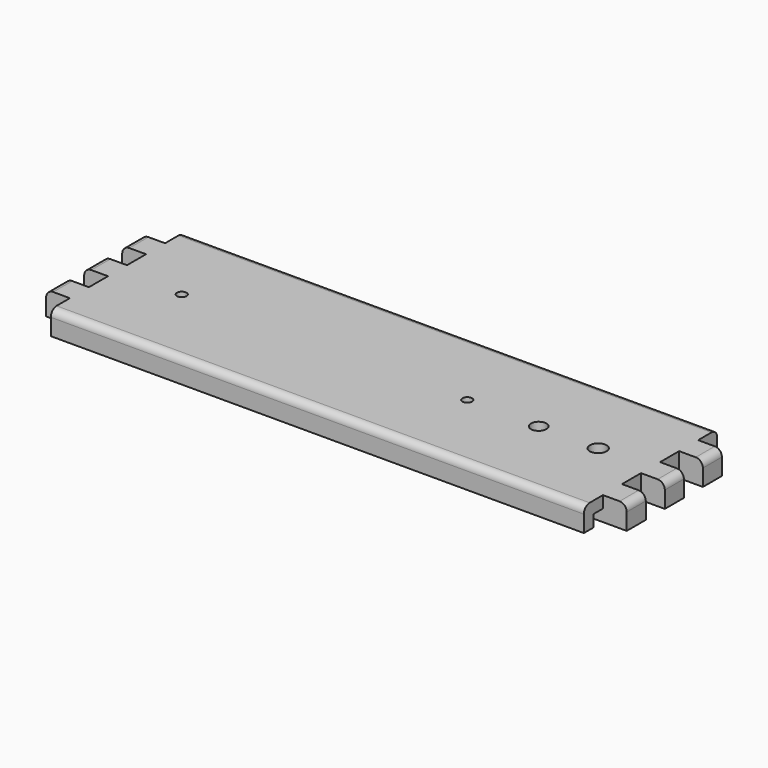
from build123d import *

# Parameters (mm, degrees)
SKETCH_W        = 244
SKETCH_H        = 70
PAD_DEPTH       = 10
FILLET_R        = 3
FILLET001_R     = 3
FILLET002_R     = 3
FILLET003_R     = 3
POCKET_DEPTH    = 5
SKETCH002_W     = 10
SKETCH002_H     = 10
POCKET001_DEPTH = 10.001
SKETCH003_R     = 3.5
SKETCH003_R_2   = 3.25
SKETCH003_R_3   = 2
POCKET002_DEPTH = 10.001
SKETCH004_W     = 45
SKETCH004_H     = 12
POCKET003_DEPTH = 5
FILLET004_R     = 2
FILLET005_R     = 2
FILLET006_R     = 2
FILLET007_R     = 2


with BuildPart() as part:
    # Sketch → Pad (new body)
    with BuildSketch(Plane.XY):
        Rectangle(SKETCH_W, SKETCH_H)
    extrude(amount=PAD_DEPTH)

    # Fillet
    fillet_edges = [part.edges().sort_by_distance(p)[0] for p in [
        (0, -35, 10),
    ]]
    fillet(fillet_edges, radius=FILLET_R)

    # Fillet001
    fillet001_edges = [part.edges().sort_by_distance(p)[0] for p in [
        (-122, 1.5, 10),
    ]]
    fillet(fillet001_edges, radius=FILLET001_R)

    # Fillet002
    fillet002_edges = [part.edges().sort_by_distance(p)[0] for p in [
        (1.5, 35, 10),
    ]]
    fillet(fillet002_edges, radius=FILLET002_R)

    # Fillet003
    fillet003_edges = [part.edges().sort_by_distance(p)[0] for p in [
        (122, 0, 10),
    ]]
    fillet(fillet003_edges, radius=FILLET003_R)

    # Sketch001 (on Face2 of Fillet003) → Pocket (cut)
    with BuildSketch(Plane(origin=(0, 0, 0), x_dir=(1, 0, 0), z_dir=(0, 0, -1))):
        with BuildLine():
            ThreePointArc((-117, 30), (-119.5, 27.5), (-117, 25))
            Line((-117, 25), (117, 25))
            ThreePointArc((117, 25), (119.5, 27.5), (117, 30))
            Line((-117, 30), (117, 30))
        make_face()
        with BuildLine():
            ThreePointArc((-117, -25), (-119.5, -27.5), (-117, -30))
            Line((-117, -30), (117, -30))
            ThreePointArc((117, -30), (119.5, -27.5), (117, -25))
            Line((-117, -25), (117, -25))
        make_face()
    extrude(amount=-POCKET_DEPTH, mode=Mode.SUBTRACT)

    # Sketch002 (on Face2 of Pocket) → Pocket001 (cut, through all)
    with BuildSketch(Plane(origin=(0, 0, 0), x_dir=(1, 0, 0), z_dir=(0, 0, -1))):
        with Locations((-117, 10)):
            Rectangle(SKETCH002_W, SKETCH002_H)
        with Locations((-117, 30)):
            Rectangle(SKETCH002_W, SKETCH002_H)
        with Locations((-117, -10)):
            Rectangle(SKETCH002_W, SKETCH002_H)
        with Locations((117, 10)):
            Rectangle(SKETCH002_W, SKETCH002_H)
        with Locations((117, 30)):
            Rectangle(SKETCH002_W, SKETCH002_H)
        with Locations((117, -10)):
            Rectangle(SKETCH002_W, SKETCH002_H)
        with Locations((-117, -30)):
            Rectangle(SKETCH002_W, SKETCH002_H)
        with Locations((117, -30)):
            Rectangle(SKETCH002_W, SKETCH002_H)
    extrude(amount=-POCKET001_DEPTH, mode=Mode.SUBTRACT)

    # Sketch003 (on Face2 of Pocket001) → Pocket002 (cut, through all)
    with BuildSketch(Plane(origin=(0, 0, 0), x_dir=(1, 0, 0), z_dir=(0, 0, -1))):
        with Locations((90, 0)):
            Circle(SKETCH003_R)
        with Locations((65, 0)):
            Circle(SKETCH003_R_2)
        with Locations((-85, 0)):
            Circle(SKETCH003_R_3)
        with Locations((35, 0)):
            Circle(SKETCH003_R_3)
    extrude(amount=-POCKET002_DEPTH, mode=Mode.SUBTRACT)

    # Sketch004 (on Face2 of Pocket002) → Pocket003 (cut)
    with BuildSketch(Plane(origin=(0, 0, 0), x_dir=(1, 0, 0), z_dir=(0, 0, -1))):
        with Locations((77.5, 0)):
            Rectangle(SKETCH004_W, SKETCH004_H)
    extrude(amount=-POCKET003_DEPTH, mode=Mode.SUBTRACT)

    # Fillet004
    fillet004_edges = [part.edges().sort_by_distance(p)[0] for p in [
        (100, 6, 2.5),
    ]]
    fillet(fillet004_edges, radius=FILLET004_R)

    # Fillet005
    fillet005_edges = [part.edges().sort_by_distance(p)[0] for p in [
        (55, 6, 2.5),
    ]]
    fillet(fillet005_edges, radius=FILLET005_R)

    # Fillet006
    fillet006_edges = [part.edges().sort_by_distance(p)[0] for p in [
        (55, -6, 2.5),
    ]]
    fillet(fillet006_edges, radius=FILLET006_R)

    # Fillet007
    fillet007_edges = [part.edges().sort_by_distance(p)[0] for p in [
        (100, -6, 2.5),
    ]]
    fillet(fillet007_edges, radius=FILLET007_R)


with BuildPart() as part_1:
    # Body placement: moved
    add(part.part.moved(Location((140, -80, 0))))


solid = part_1.part
